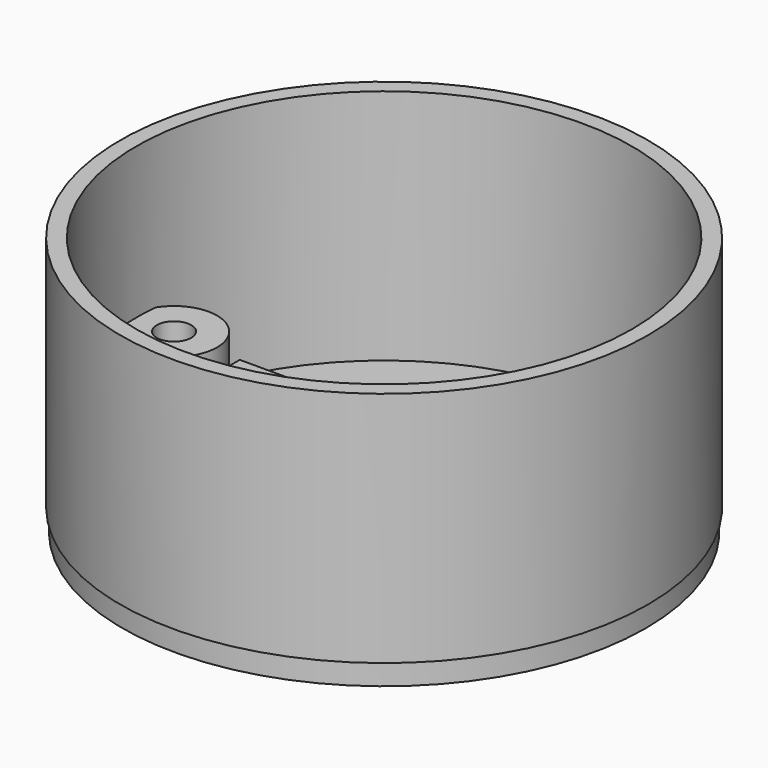
from build123d import *

# Parameters (mm, degrees)
BOX002_W               = 22
BOX002_H               = 10
BOX002_DEPTH           = 10
BOX002_PLACEMENT_ANGLE = 45
CYLINDER010_R          = 1.6
CYLINDER010_DEPTH      = 10
CYLINDER009_R          = 2.8
CYLINDER009_DEPTH      = 2
CYLINDER008_R          = 4
CYLINDER008_DEPTH      = 8
CYLINDER007_R          = 1.6
CYLINDER007_DEPTH      = 10
CYLINDER006_R          = 2.8
CYLINDER006_DEPTH      = 2
CYLINDER005_R          = 4
CYLINDER005_DEPTH      = 8
CYLINDER004_R          = 1.6
CYLINDER004_DEPTH      = 10
CYLINDER003_R          = 2.8
CYLINDER003_DEPTH      = 2
CYLINDER001_R          = 4
CYLINDER001_DEPTH      = 8
BOX001_W               = 22
BOX001_H               = 3.5
BOX001_DEPTH           = 15
BOX_W                  = 26
BOX_H                  = 7
BOX_DEPTH              = 8
TUBE_R                 = 24.5
TUBE_R_2               = 23
TUBE_DEPTH             = 22
CYLINDER_R             = 24.3
CYLINDER_DEPTH         = 2


with BuildPart() as box002:
    # Box002 → Box002 (new body)
    with BuildSketch(Plane.XY):
        with Locations((11, 5)):
            Rectangle(BOX002_W, BOX002_H)
    extrude(amount=BOX002_DEPTH)


with BuildPart() as box002_1:
    # Box002 placement: moved
    add(box002.part.moved(Location((-11, -3.75, -10.15))).rotate(Axis((-11, -3.75, -10.15), (1, 0, 0)), BOX002_PLACEMENT_ANGLE))


with BuildPart() as cylinder010:
    # Cylinder010 → Cylinder010 (new body)
    with BuildSketch(Plane(origin=(15.5, -12, 0), x_dir=(1, 0, 0), z_dir=(0, 0, 1))):
        Circle(CYLINDER010_R)
    extrude(amount=CYLINDER010_DEPTH)


with BuildPart() as cone002:
    # Cone002 → Cone002 (revolve)
    with BuildSketch(Plane(origin=(15.5, -12, 2), x_dir=(1, 0, 0), z_dir=(0, -1, 0))):
        Polygon((0, 0), (2.8, 0), (0, 5.6), align=None)
    revolve(axis=Axis((15.5, -12, 2), (0, 0, 1)))


with BuildPart() as cylinder009:
    # Cylinder009 → Cylinder009 (new body)
    with BuildSketch(Plane(origin=(15.5, -12, 0), x_dir=(1, 0, 0), z_dir=(0, 0, 1))):
        Circle(CYLINDER009_R)
    extrude(amount=CYLINDER009_DEPTH)


with BuildPart() as cylinder008:
    # Cylinder008 → Cylinder008 (new body)
    with BuildSketch(Plane(origin=(15.5, -12, 2), x_dir=(1, 0, 0), z_dir=(0, 0, 1))):
        Circle(CYLINDER008_R)
    extrude(amount=CYLINDER008_DEPTH)


with BuildPart() as cylinder007:
    # Cylinder007 → Cylinder007 (new body)
    with BuildSketch(Plane(origin=(15.5, 12, 0), x_dir=(1, 0, 0), z_dir=(0, 0, 1))):
        Circle(CYLINDER007_R)
    extrude(amount=CYLINDER007_DEPTH)


with BuildPart() as cone001:
    # Cone001 → Cone001 (revolve)
    with BuildSketch(Plane(origin=(15.5, 12, 2), x_dir=(1, 0, 0), z_dir=(0, -1, 0))):
        Polygon((0, 0), (2.8, 0), (0, 5.6), align=None)
    revolve(axis=Axis((15.5, 12, 2), (0, 0, 1)))


with BuildPart() as cylinder006:
    # Cylinder006 → Cylinder006 (new body)
    with BuildSketch(Plane(origin=(15.5, 12, 0), x_dir=(1, 0, 0), z_dir=(0, 0, 1))):
        Circle(CYLINDER006_R)
    extrude(amount=CYLINDER006_DEPTH)


with BuildPart() as cylinder005:
    # Cylinder005 → Cylinder005 (new body)
    with BuildSketch(Plane(origin=(15.5, 12, 2), x_dir=(1, 0, 0), z_dir=(0, 0, 1))):
        Circle(CYLINDER005_R)
    extrude(amount=CYLINDER005_DEPTH)


with BuildPart() as cylinder004:
    # Cylinder004 → Cylinder004 (new body)
    with BuildSketch(Plane(origin=(-19.5, 0, 0), x_dir=(1, 0, 0), z_dir=(0, 0, 1))):
        Circle(CYLINDER004_R)
    extrude(amount=CYLINDER004_DEPTH)


with BuildPart() as cone:
    # Cone → Cone (revolve)
    with BuildSketch(Plane(origin=(-19.5, 0, 2), x_dir=(1, 0, 0), z_dir=(0, -1, 0))):
        Polygon((0, 0), (2.8, 0), (0, 5.6), align=None)
    revolve(axis=Axis((-19.5, 0, 2), (0, 0, 1)))


with BuildPart() as cylinder003:
    # Cylinder003 → Cylinder003 (new body)
    with BuildSketch(Plane(origin=(-19.5, 0, 0), x_dir=(1, 0, 0), z_dir=(0, 0, 1))):
        Circle(CYLINDER003_R)
    extrude(amount=CYLINDER003_DEPTH)


with BuildPart() as cylinder001:
    # Cylinder001 → Cylinder001 (new body)
    with BuildSketch(Plane(origin=(-19.5, 0, 2), x_dir=(1, 0, 0), z_dir=(0, 0, 1))):
        Circle(CYLINDER001_R)
    extrude(amount=CYLINDER001_DEPTH)


with BuildPart() as box001:
    # Box001 → Box001 (new body)
    with BuildSketch(Plane(origin=(-11, -5.75, -1), x_dir=(1, 0, 0), z_dir=(0, 0, 1))):
        with Locations((11, 1.75)):
            Rectangle(BOX001_W, BOX001_H)
    extrude(amount=BOX001_DEPTH)


with BuildPart() as box:
    # Box → Box (new body)
    with BuildSketch(Plane(origin=(-13, -7.5, 2), x_dir=(1, 0, 0), z_dir=(0, 0, 1))):
        with Locations((13, 3.5)):
            Rectangle(BOX_W, BOX_H)
    extrude(amount=BOX_DEPTH)


with BuildPart() as tube:
    # Tube → Tube (new body)
    with BuildSketch(Plane.XY.offset(2)):
        Circle(TUBE_R)
        Circle(TUBE_R_2, mode=Mode.SUBTRACT)
    extrude(amount=TUBE_DEPTH)


with BuildPart() as cut010:
    # Cylinder → Cylinder (new body)
    with BuildSketch(Plane.XY):
        Circle(CYLINDER_R)
    extrude(amount=CYLINDER_DEPTH)

    # Fusion: union Tube
    add(tube.part)

    # Fusion001: union Box
    add(box.part)

    # Cut: cut Box001
    add(box001.part, mode=Mode.SUBTRACT)

    # Fusion002: union Cylinder001
    add(cylinder001.part)

    # Cut001: cut Cylinder003
    add(cylinder003.part, mode=Mode.SUBTRACT)

    # Cut002: cut Cone
    add(cone.part, mode=Mode.SUBTRACT)

    # Cut003: cut Cylinder004
    add(cylinder004.part, mode=Mode.SUBTRACT)

    # Fusion003: union Cylinder005
    add(cylinder005.part)

    # Cut004: cut Cylinder006
    add(cylinder006.part, mode=Mode.SUBTRACT)

    # Cut005: cut Cone001
    add(cone001.part, mode=Mode.SUBTRACT)

    # Cut006: cut Cylinder007
    add(cylinder007.part, mode=Mode.SUBTRACT)

    # Fusion004: union Cylinder008
    add(cylinder008.part)

    # Cut007: cut Cylinder009
    add(cylinder009.part, mode=Mode.SUBTRACT)

    # Cut008: cut Cone002
    add(cone002.part, mode=Mode.SUBTRACT)

    # Cut009: cut Cylinder010
    add(cylinder010.part, mode=Mode.SUBTRACT)

    # Cut010: cut Box002
    add(box002_1.part, mode=Mode.SUBTRACT)


solid = cut010.part
